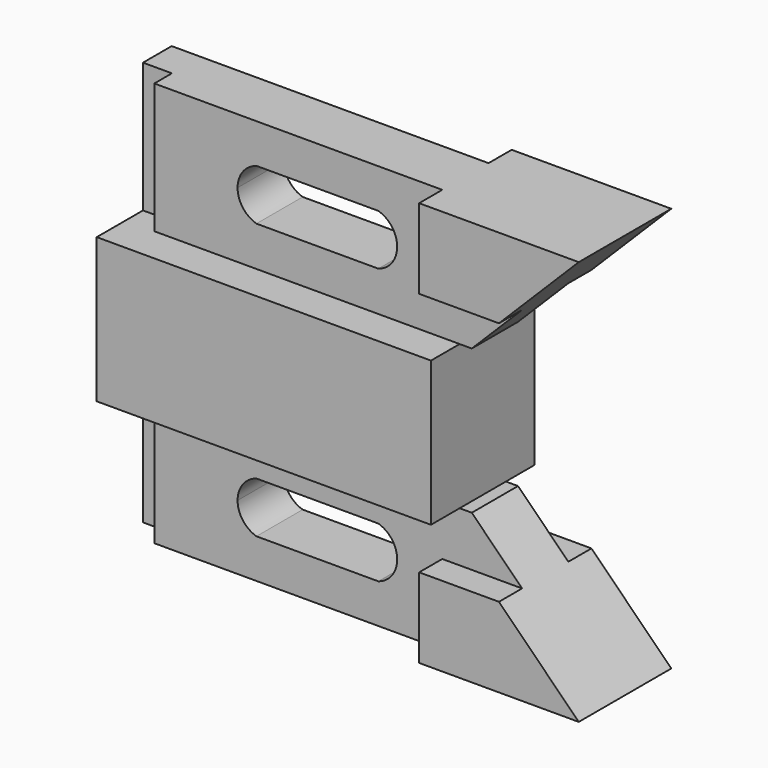
from build123d import *

# Parameters (mm, degrees)
F0_W      = 69.596
F0_H      = 6.35
F1_DEPTH  = 15.875
F2_DEPTH  = 28.575
F4_DEPTH  = 26.925
F6_DEPTH  = 6.35
F8_DEPTH  = 6.35
F10_DEPTH = 50.8


with BuildPart() as f1:
    # F0 (on Top) → F1 (new body)
    with BuildSketch(Plane.XY):
        Polygon((-52.324, 6.35), (-52.324, 0), (21.082, 0), (21.082, 12.7), (17.272, 12.7), (17.272, 6.35), align=None)
        with Locations((-17.526, 9.525)):
            Rectangle(F0_W, F0_H)
        Polygon((-52.324, -1.524), (-52.324, -12.7), (17.272, -12.7), (17.272, -6.35), (-45.974, -6.35), (-45.974, -1.524), align=None)
        Polygon((17.272, -6.35), (17.272, -12.7), (21.082, -12.7), (21.082, 0), (-52.324, 0), (-52.324, -1.524), (-45.974, -1.524), (-45.974, -6.35), align=None)
        Polygon((17.272, -12.7), (-52.324, -12.7), (-52.324, -14.224), (21.082, -14.224), (21.082, -12.7), align=None)
        Polygon((17.272, 12.7), (21.082, 12.7), (21.082, 14.224), (-52.324, 14.224), (-52.324, 12.7), align=None)
    extrude(amount=-F1_DEPTH)

    # F0 (on Top) → F2 (join)
    with BuildSketch(Plane.XY):
        Polygon((-52.324, 6.35), (-52.324, 0), (21.082, 0), (21.082, 12.7), (17.272, 12.7), (17.272, 6.35), align=None)
        Polygon((21.082, 0), (21.082, -12.7), (52.324, -12.7), (52.324, 12.7), (21.082, 12.7), align=None)
        Polygon((17.272, -6.35), (17.272, -12.7), (21.082, -12.7), (21.082, 0), (-52.324, 0), (-52.324, -1.524), (-45.974, -1.524), (-45.974, -6.35), align=None)
    extrude(amount=F2_DEPTH)

    # F3 (on face) → F4 (cut, through all)
    with BuildSketch(Plane.XZ.offset(12.7)):
        Polygon((52.324, 0), (52.324, 28.575), (23.749, 0), align=None)
    extrude(amount=-F4_DEPTH, mode=Mode.SUBTRACT)

    # F5 (on face) → F6 (cut)
    with BuildSketch(Plane.XZ.offset(12.7)):
        Polygon((34.798, 11.049), (17.272, 11.049), (17.272, 0), (21.082, 0), (23.749, 0), align=None)
    extrude(amount=-F6_DEPTH, mode=Mode.SUBTRACT)

    # F7 (on face) → F8 (cut)
    with BuildSketch(Plane(origin=(0, 12.7, 0), x_dir=(-1, 0, 0), z_dir=(0, 1, 0))):
        Polygon((-17.272, 0), (-17.272, 11.049), (-34.798, 11.049), (-23.749, 0), (-21.082, 0), align=None)
    extrude(amount=-F8_DEPTH, mode=Mode.SUBTRACT)

    # F9 (on face) → F10 (cut)
    with BuildSketch(Plane.XZ.offset(6.35)):
        with BuildLine():
            ThreePointArc((-23.5478837989, 19.939), (-26.5388404208, 17.8276992138), (-27.686, 14.351))
            Line((-27.686, 14.351), (-21.844, 14.351))
            Line((-21.844, 14.351), (-16.002, 14.351))
            ThreePointArc((-16.002, 14.351), (-17.1491595792, 17.8276992138), (-20.1401162011, 19.939))
            Line((-20.1401162011, 19.939), (-23.5478837989, 19.939))
        make_face()
        with BuildLine():
            Line((-21.844, 14.351), (-27.686, 14.351))
            ThreePointArc((-27.686, 14.351), (-26.5388404208, 10.8743007862), (-23.5478837989, 8.763))
            Line((-23.5478837989, 8.763), (-20.1401162011, 8.763))
            ThreePointArc((-20.1401162011, 8.763), (-17.1491595792, 10.8743007862), (-16.002, 14.351))
            Line((-16.002, 14.351), (-21.844, 14.351))
        make_face()
        with BuildLine():
            ThreePointArc((-20.1401162011, 19.939), (-17.1491595792, 17.8276992138), (-16.002, 14.351))
            Line((-16.002, 14.351), (-4.318, 14.351))
            ThreePointArc((-4.318, 14.351), (-3.1708404208, 17.8276992138), (-0.1798837989, 19.939))
            Line((-0.1798837989, 19.939), (-20.1401162011, 19.939))
        make_face()
        with BuildLine():
            Line((-4.318, 14.351), (-16.002, 14.351))
            ThreePointArc((-16.002, 14.351), (-17.1491595792, 10.8743007862), (-20.1401162011, 8.763))
            Line((-20.1401162011, 8.763), (-0.1798837989, 8.763))
            ThreePointArc((-0.1798837989, 8.763), (-3.1708404208, 10.8743007862), (-4.318, 14.351))
        make_face()
        with BuildLine():
            ThreePointArc((-0.1798837989, 19.939), (-3.1708404208, 17.8276992138), (-4.318, 14.351))
            Line((-4.318, 14.351), (1.524, 14.351))
            Line((1.524, 14.351), (7.366, 14.351))
            ThreePointArc((7.366, 14.351), (6.2188404208, 17.8276992138), (3.2278837989, 19.939))
            Line((3.2278837989, 19.939), (-0.1798837989, 19.939))
        make_face()
        with BuildLine():
            Line((1.524, 14.351), (-4.318, 14.351))
            ThreePointArc((-4.318, 14.351), (-3.1708404208, 10.8743007862), (-0.1798837989, 8.763))
            Line((-0.1798837989, 8.763), (3.2278837989, 8.763))
            ThreePointArc((3.2278837989, 8.763), (6.2188404208, 10.8743007862), (7.366, 14.351))
            Line((7.366, 14.351), (1.524, 14.351))
        make_face()
    extrude(amount=-F10_DEPTH, mode=Mode.SUBTRACT)

    # F11: F1 across face


with BuildPart() as f1_1:
    add(f1.part)
    add(f1.part.mirror(Plane(origin=(-15.621, 0, -15.875), x_dir=(1, 0, 0), z_dir=(0, 0, -1))))


solid = f1_1.part
